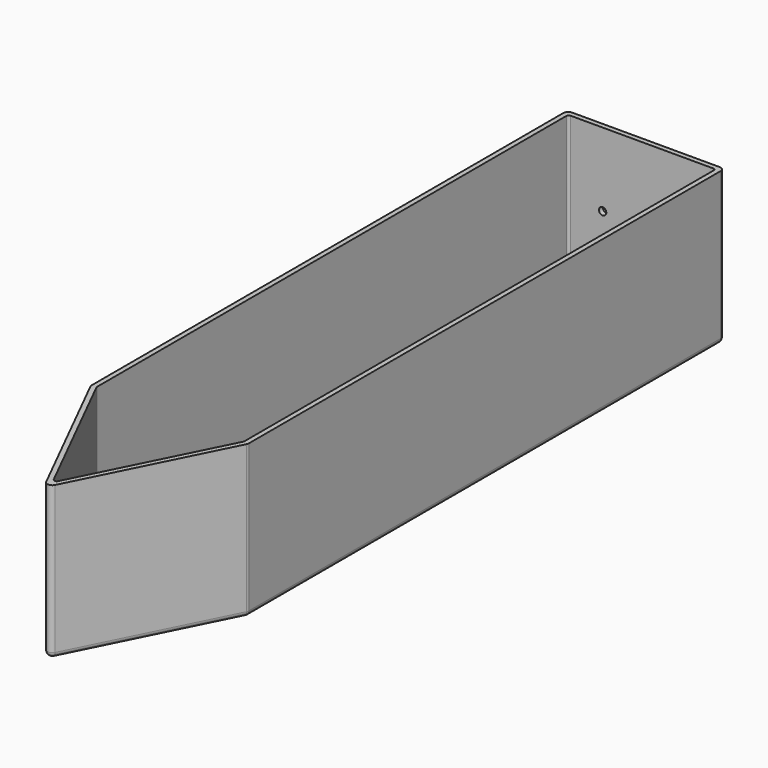
from build123d import *

# Parameters (mm, degrees)
PAD_DEPTH       = 30
THICKNESS_T     = 1
SKETCH001_R     = 0.75
SKETCH001_W     = 12.5
SKETCH001_H     = 23
POCKET_DEPTH    = 5
SKETCH002_R     = 0.75
POCKET001_DEPTH = 1
FILLET001_R     = 0.5
FILLET_R        = 0.5


with BuildPart() as part:
    # Sketch → Pad (new body)
    with BuildSketch(Plane.XY):
        Polygon((-15, 120), (-15, 0), (0, -30), (15, 0), (15, 120), align=None)
    extrude(amount=PAD_DEPTH)

    # Thickness
    thickness_openings = [part.faces().sort_by_distance(p)[0] for p in [
        (0, 52.222222, 30),
    ]]
    offset(amount=THICKNESS_T, openings=thickness_openings)

    # Sketch001 (on Face6 of Thickness) → Pocket (cut)
    with BuildSketch(Plane.XY):
        with Locations((0, 19)):
            Circle(SKETCH001_R)
        with Locations((0, -8)):
            Circle(SKETCH001_R)
        with Locations((0, 5.5)):
            Rectangle(SKETCH001_W, SKETCH001_H)
    extrude(amount=-POCKET_DEPTH, mode=Mode.SUBTRACT)

    # Sketch002 (on Face15 of Pocket) → Pocket001 (cut)
    with BuildSketch(Plane(origin=(0, 121, 0), x_dir=(-1, 0, 0), z_dir=(0, 1, 0))):
        with Locations((-8, 15)):
            Circle(SKETCH002_R)
        with Locations((8, 15)):
            Circle(SKETCH002_R)
    extrude(amount=-POCKET001_DEPTH, mode=Mode.SUBTRACT)

    # Fillet001
    fillet001_edges = [part.edges().sort_by_distance(p)[0] for p in [
        (0, -30, 15),
        (15, 0, 15),
        (-15, 0, 15),
        (-15, 120, 15),
        (15, 120, 15),
    ]]
    fillet(fillet001_edges, radius=FILLET001_R)

    # Fillet
    fillet_edges = [part.edges().sort_by_distance(p)[0] for p in [
        (7.697214, -14.605573, 0),
        (0, -29.381966, 0),
        (-7.697214, -14.605573, 0),
        (15, 59.809017, 0),
        (14.986624, 0.003158, 0),
        (-14.986624, 0.003158, 0),
        (-15, 59.809017, 0),
        (0, 120, 0),
        (14.853553, 119.853553, 0),
        (-14.853553, 119.853553, 0),
    ]]
    fillet(fillet_edges, radius=FILLET_R)


solid = part.part
